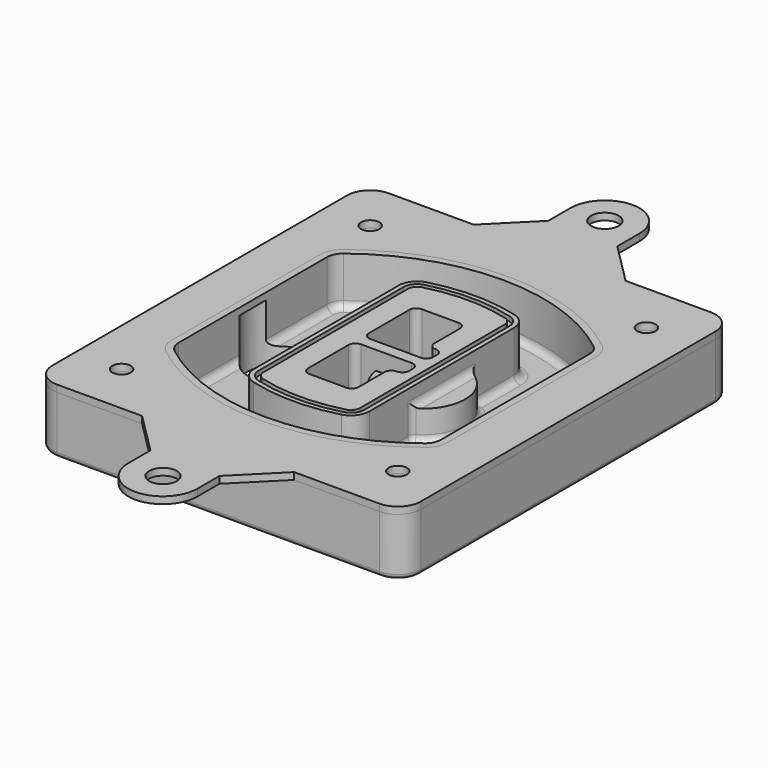
from build123d import *

# Parameters (mm, degrees)
F0_R      = 4
F1_DEPTH  = 25
F2_DEPTH  = 3
F3_DEPTH  = 18
F5_DEPTH  = 21
F6_DEPTH  = 2
F8_DEPTH  = 20
F9_DEPTH  = 16
F10_DEPTH = 25
F7_R      = 6
F7_R_2    = 4
F11_DEPTH = 6
F13_DEPTH = 9
F14_R     = 3
F15_R     = 2
F16_R     = 4
F16_R_2   = 6
F17_DEPTH = 3


with BuildPart() as f1:
    # F0 (on Top) → F1 (new body)
    with BuildSketch(Plane.XY):
        with BuildLine():
            ThreePointArc((-80, -80), (-77.0710678119, -87.0710678119), (-70, -90))
            Line((-70, -90), (70, -90))
            ThreePointArc((70, -90), (77.0710678119, -87.0710678119), (80, -80))
            Line((80, -80), (80, 80))
            ThreePointArc((80, 80), (77.0710678119, 87.0710678119), (70, 90))
            Line((70, 90), (-70, 90))
            ThreePointArc((-70, 90), (-77.0710678119, 87.0710678119), (-80, 80))
            Line((-80, 80), (-80, -80))
        make_face()
        with Locations((-60, -67.5)):
            Circle(F0_R, mode=Mode.SUBTRACT)
        with Locations((60, -67.5)):
            Circle(F0_R, mode=Mode.SUBTRACT)
        with Locations((-60, 67.5)):
            Circle(F0_R, mode=Mode.SUBTRACT)
        with BuildLine():
            ThreePointArc((-64, 40.2934422872), (-62.5820384798, 46.4328484224), (-58.6153846154, 51.3286200352))
            ThreePointArc((-58.6153846154, 51.3286200352), (0, 71.5), (58.6153846154, 51.3286200352))
            ThreePointArc((58.6153846154, 51.3286200352), (62.5820384798, 46.4328484224), (64, 40.2934422872))
            Line((64, 40.2934422872), (64, -40.2934422872))
            ThreePointArc((64, -40.2934422872), (62.5820384798, -46.4328484224), (58.6153846154, -51.3286200352))
            ThreePointArc((58.6153846154, -51.3286200352), (0, -71.5), (-58.6153846154, -51.3286200352))
            ThreePointArc((-58.6153846154, -51.3286200352), (-62.5820384798, -46.4328484224), (-64, -40.2934422872))
            Line((-64, -40.2934422872), (-64, 40.2934422872))
        make_face(mode=Mode.SUBTRACT)
        with Locations((60, 67.5)):
            Circle(F0_R, mode=Mode.SUBTRACT)
        with BuildLine():
            ThreePointArc((58.6153846154, 51.3286200352), (0, 71.5), (-58.6153846154, 51.3286200352))
            ThreePointArc((-58.6153846154, 51.3286200352), (-62.5820384798, 46.4328484224), (-64, 40.2934422872))
            Line((-64, 40.2934422872), (-64, -40.2934422872))
            ThreePointArc((-64, -40.2934422872), (-62.5820384798, -46.4328484224), (-58.6153846154, -51.3286200352))
            ThreePointArc((-58.6153846154, -51.3286200352), (0, -71.5), (58.6153846154, -51.3286200352))
            ThreePointArc((58.6153846154, -51.3286200352), (62.5820384798, -46.4328484224), (64, -40.2934422872))
            Line((64, -40.2934422872), (64, 40.2934422872))
            ThreePointArc((64, 40.2934422872), (62.5820384798, 46.4328484224), (58.6153846154, 51.3286200352))
        make_face()
        with BuildLine():
            Line((-60, -40.2934422872), (-60, 40.2934422872))
            ThreePointArc((-60, 40.2934422872), (-58.9871703427, 44.6787323838), (-56.1538461538, 48.1757121072))
            ThreePointArc((-56.1538461538, 48.1757121072), (0, 67.5), (56.1538461538, 48.1757121072))
            ThreePointArc((56.1538461538, 48.1757121072), (58.9871703427, 44.6787323838), (60, 40.2934422872))
            Line((60, 40.2934422872), (60, -40.2934422872))
            ThreePointArc((60, -40.2934422872), (58.9871703427, -44.6787323838), (56.1538461538, -48.1757121072))
            ThreePointArc((56.1538461538, -48.1757121072), (0, -67.5), (-56.1538461538, -48.1757121072))
            ThreePointArc((-56.1538461538, -48.1757121072), (-58.9871703427, -44.6787323838), (-60, -40.2934422872))
        make_face(mode=Mode.SUBTRACT)
        with BuildLine():
            ThreePointArc((-56.1538461538, 48.1757121072), (-58.9871703427, 44.6787323838), (-60, 40.2934422872))
            Line((-60, 40.2934422872), (-60, -40.2934422872))
            ThreePointArc((-60, -40.2934422872), (-58.9871703427, -44.6787323838), (-56.1538461538, -48.1757121072))
            ThreePointArc((-56.1538461538, -48.1757121072), (0, -67.5), (56.1538461538, -48.1757121072))
            ThreePointArc((56.1538461538, -48.1757121072), (58.9871703427, -44.6787323838), (60, -40.2934422872))
            Line((60, -40.2934422872), (60, 40.2934422872))
            ThreePointArc((60, 40.2934422872), (58.9871703427, 44.6787323838), (56.1538461538, 48.1757121072))
            ThreePointArc((56.1538461538, 48.1757121072), (0, 67.5), (-56.1538461538, 48.1757121072))
        make_face()
        with BuildLine():
            ThreePointArc((54.3076923077, 45.8110311612), (56.2910192399, 43.3631453548), (57, 40.2934422872))
            Line((57, 40.2934422872), (57, -40.2934422872))
            ThreePointArc((57, -40.2934422872), (56.2910192399, -43.3631453548), (54.3076923077, -45.8110311612))
            ThreePointArc((54.3076923077, -45.8110311612), (0, -64.5), (-54.3076923077, -45.8110311612))
            ThreePointArc((-54.3076923077, -45.8110311612), (-56.2910192399, -43.3631453548), (-57, -40.2934422872))
            Line((-57, -40.2934422872), (-57, 40.2934422872))
            ThreePointArc((-57, 40.2934422872), (-56.2910192399, 43.3631453548), (-54.3076923077, 45.8110311612))
            ThreePointArc((-54.3076923077, 45.8110311612), (0, 64.5), (54.3076923077, 45.8110311612))
        make_face(mode=Mode.SUBTRACT)
        with BuildLine():
            Line((57, -40.2934422872), (57, 40.2934422872))
            ThreePointArc((57, 40.2934422872), (56.2910192399, 43.3631453548), (54.3076923077, 45.8110311612))
            ThreePointArc((54.3076923077, 45.8110311612), (0, 64.5), (-54.3076923077, 45.8110311612))
            ThreePointArc((-54.3076923077, 45.8110311612), (-56.2910192399, 43.3631453548), (-57, 40.2934422872))
            Line((-57, 40.2934422872), (-57, -40.2934422872))
            ThreePointArc((-57, -40.2934422872), (-56.2910192399, -43.3631453548), (-54.3076923077, -45.8110311612))
            ThreePointArc((-54.3076923077, -45.8110311612), (0, -64.5), (54.3076923077, -45.8110311612))
            ThreePointArc((54.3076923077, -45.8110311612), (56.2910192399, -43.3631453548), (57, -40.2934422872))
        make_face()
    extrude(amount=-F1_DEPTH)

    # F0 (on Top) → F2 (join)
    with BuildSketch(Plane.XY):
        with BuildLine():
            ThreePointArc((-56.1538461538, 48.1757121072), (-58.9871703427, 44.6787323838), (-60, 40.2934422872))
            Line((-60, 40.2934422872), (-60, -40.2934422872))
            ThreePointArc((-60, -40.2934422872), (-58.9871703427, -44.6787323838), (-56.1538461538, -48.1757121072))
            ThreePointArc((-56.1538461538, -48.1757121072), (0, -67.5), (56.1538461538, -48.1757121072))
            ThreePointArc((56.1538461538, -48.1757121072), (58.9871703427, -44.6787323838), (60, -40.2934422872))
            Line((60, -40.2934422872), (60, 40.2934422872))
            ThreePointArc((60, 40.2934422872), (58.9871703427, 44.6787323838), (56.1538461538, 48.1757121072))
            ThreePointArc((56.1538461538, 48.1757121072), (0, 67.5), (-56.1538461538, 48.1757121072))
        make_face()
        with BuildLine():
            ThreePointArc((54.3076923077, 45.8110311612), (56.2910192399, 43.3631453548), (57, 40.2934422872))
            Line((57, 40.2934422872), (57, -40.2934422872))
            ThreePointArc((57, -40.2934422872), (56.2910192399, -43.3631453548), (54.3076923077, -45.8110311612))
            ThreePointArc((54.3076923077, -45.8110311612), (0, -64.5), (-54.3076923077, -45.8110311612))
            ThreePointArc((-54.3076923077, -45.8110311612), (-56.2910192399, -43.3631453548), (-57, -40.2934422872))
            Line((-57, -40.2934422872), (-57, 40.2934422872))
            ThreePointArc((-57, 40.2934422872), (-56.2910192399, 43.3631453548), (-54.3076923077, 45.8110311612))
            ThreePointArc((-54.3076923077, 45.8110311612), (0, 64.5), (54.3076923077, 45.8110311612))
        make_face(mode=Mode.SUBTRACT)
    extrude(amount=F2_DEPTH)

    # F0 (on Top) → F3 (cut)
    with BuildSketch(Plane.XY):
        with BuildLine():
            Line((57, -40.2934422872), (57, 40.2934422872))
            ThreePointArc((57, 40.2934422872), (56.2910192399, 43.3631453548), (54.3076923077, 45.8110311612))
            ThreePointArc((54.3076923077, 45.8110311612), (0, 64.5), (-54.3076923077, 45.8110311612))
            ThreePointArc((-54.3076923077, 45.8110311612), (-56.2910192399, 43.3631453548), (-57, 40.2934422872))
            Line((-57, 40.2934422872), (-57, -40.2934422872))
            ThreePointArc((-57, -40.2934422872), (-56.2910192399, -43.3631453548), (-54.3076923077, -45.8110311612))
            ThreePointArc((-54.3076923077, -45.8110311612), (0, -64.5), (54.3076923077, -45.8110311612))
            ThreePointArc((54.3076923077, -45.8110311612), (56.2910192399, -43.3631453548), (57, -40.2934422872))
        make_face()
    extrude(amount=-F3_DEPTH, mode=Mode.SUBTRACT)

    # F4 (on face) → F5 (join, through all)
    with BuildSketch(Plane.XY.offset(3)):
        with BuildLine():
            ThreePointArc((-25, -39.2465276821), (-23.3511545998, -44.1109737193), (-19.0842911877, -46.9702398883))
            ThreePointArc((-19.0842911877, -46.9702398883), (0, -49.5), (19.0842911877, -46.9702398883))
            ThreePointArc((19.0842911877, -46.9702398883), (23.3511545998, -44.1109737193), (25, -39.2465276821))
            Line((25, -39.2465276821), (25, 39.2465276821))
            ThreePointArc((25, 39.2465276821), (23.3511545998, 44.1109737193), (19.0842911877, 46.9702398883))
            ThreePointArc((19.0842911877, 46.9702398883), (0, 49.5), (-19.0842911877, 46.9702398883))
            ThreePointArc((-19.0842911877, 46.9702398883), (-23.3511545998, 44.1109737193), (-25, 39.2465276821))
            Line((-25, 39.2465276821), (-25, -39.2465276821))
        make_face()
        with BuildLine():
            ThreePointArc((18.5632183908, 45.0393118368), (21.7633659499, 42.89486221), (23, 39.2465276821))
            Line((23, 39.2465276821), (23, -39.2465276821))
            ThreePointArc((23, -39.2465276821), (21.7633659499, -42.89486221), (18.5632183908, -45.0393118368))
            ThreePointArc((18.5632183908, -45.0393118368), (0, -47.5), (-18.5632183908, -45.0393118368))
            ThreePointArc((-18.5632183908, -45.0393118368), (-21.7633659499, -42.89486221), (-23, -39.2465276821))
            Line((-23, -39.2465276821), (-23, 39.2465276821))
            ThreePointArc((-23, 39.2465276821), (-21.7633659499, 42.89486221), (-18.5632183908, 45.0393118368))
            ThreePointArc((-18.5632183908, 45.0393118368), (0, 47.5), (18.5632183908, 45.0393118368))
        make_face(mode=Mode.SUBTRACT)
        with BuildLine():
            Line((23, -39.2465276821), (23, 39.2465276821))
            ThreePointArc((23, 39.2465276821), (21.7633659499, 42.89486221), (18.5632183908, 45.0393118368))
            ThreePointArc((18.5632183908, 45.0393118368), (0, 47.5), (-18.5632183908, 45.0393118368))
            ThreePointArc((-18.5632183908, 45.0393118368), (-21.7633659499, 42.89486221), (-23, 39.2465276821))
            Line((-23, 39.2465276821), (-23, -39.2465276821))
            ThreePointArc((-23, -39.2465276821), (-21.7633659499, -42.89486221), (-18.5632183908, -45.0393118368))
            ThreePointArc((-18.5632183908, -45.0393118368), (0, -47.5), (18.5632183908, -45.0393118368))
            ThreePointArc((18.5632183908, -45.0393118368), (21.7633659499, -42.89486221), (23, -39.2465276821))
        make_face()
        with BuildLine():
            ThreePointArc((18.0421455939, 43.1083837852), (20.1755772999, 41.6787507007), (21, 39.2465276821))
            Line((21, 39.2465276821), (21, -39.2465276821))
            ThreePointArc((21, -39.2465276821), (20.1755772999, -41.6787507007), (18.0421455939, -43.1083837852))
            ThreePointArc((18.0421455939, -43.1083837852), (0, -45.5), (-18.0421455939, -43.1083837852))
            ThreePointArc((-18.0421455939, -43.1083837852), (-20.1755772999, -41.6787507007), (-21, -39.2465276821))
            Line((-21, -39.2465276821), (-21, 39.2465276821))
            ThreePointArc((-21, 39.2465276821), (-20.1755772999, 41.6787507007), (-18.0421455939, 43.1083837852))
            ThreePointArc((-18.0421455939, 43.1083837852), (0, 45.5), (18.0421455939, 43.1083837852))
        make_face(mode=Mode.SUBTRACT)
        with BuildLine():
            Line((21, -39.2465276821), (21, 39.2465276821))
            ThreePointArc((21, 39.2465276821), (20.1755772999, 41.6787507007), (18.0421455939, 43.1083837852))
            ThreePointArc((18.0421455939, 43.1083837852), (0, 45.5), (-18.0421455939, 43.1083837852))
            ThreePointArc((-18.0421455939, 43.1083837852), (-20.1755772999, 41.6787507007), (-21, 39.2465276821))
            Line((-21, 39.2465276821), (-21, -39.2465276821))
            ThreePointArc((-21, -39.2465276821), (-20.1755772999, -41.6787507007), (-18.0421455939, -43.1083837852))
            ThreePointArc((-18.0421455939, -43.1083837852), (0, -45.5), (18.0421455939, -43.1083837852))
            ThreePointArc((18.0421455939, -43.1083837852), (20.1755772999, -41.6787507007), (21, -39.2465276821))
        make_face()
        with BuildLine():
            Line((-8, -2.5), (14, -2.5))
            ThreePointArc((14, -2.5), (16.1213203436, -3.3786796564), (17, -5.5))
            Line((17, -5.5), (17, -7.5))
            ThreePointArc((17, -7.5), (16.1213203436, -9.6213203436), (14, -10.5))
            ThreePointArc((14, -10.5), (11.8786796564, -11.3786796564), (11, -13.5))
            Line((11, -13.5), (11, -27.5))
            ThreePointArc((11, -27.5), (10.1213203436, -29.6213203436), (8, -30.5))
            Line((8, -30.5), (-8, -30.5))
            ThreePointArc((-8, -30.5), (-10.1213203436, -29.6213203436), (-11, -27.5))
            Line((-11, -27.5), (-11, -5.5))
            ThreePointArc((-11, -5.5), (-10.1213203436, -3.3786796564), (-8, -2.5))
        make_face(mode=Mode.SUBTRACT)
        with BuildLine():
            ThreePointArc((-8, 2.5), (-10.1213203436, 3.3786796564), (-11, 5.5))
            Line((-11, 5.5), (-11, 27.5))
            ThreePointArc((-11, 27.5), (-10.1213203436, 29.6213203436), (-8, 30.5))
            Line((-8, 30.5), (8, 30.5))
            ThreePointArc((8, 30.5), (10.1213203436, 29.6213203436), (11, 27.5))
            Line((11, 27.5), (11, 13.5))
            ThreePointArc((11, 13.5), (11.8786796564, 11.3786796564), (14, 10.5))
            ThreePointArc((14, 10.5), (16.1213203436, 9.6213203436), (17, 7.5))
            Line((17, 7.5), (17, 5.5))
            ThreePointArc((17, 5.5), (16.1213203436, 3.3786796564), (14, 2.5))
            Line((14, 2.5), (-8, 2.5))
        make_face(mode=Mode.SUBTRACT)
    extrude(amount=-F5_DEPTH)

    # F4 (on face) → F6 (cut)
    with BuildSketch(Plane.XY.offset(3)):
        with BuildLine():
            Line((23, -39.2465276821), (23, 39.2465276821))
            ThreePointArc((23, 39.2465276821), (21.7633659499, 42.89486221), (18.5632183908, 45.0393118368))
            ThreePointArc((18.5632183908, 45.0393118368), (0, 47.5), (-18.5632183908, 45.0393118368))
            ThreePointArc((-18.5632183908, 45.0393118368), (-21.7633659499, 42.89486221), (-23, 39.2465276821))
            Line((-23, 39.2465276821), (-23, -39.2465276821))
            ThreePointArc((-23, -39.2465276821), (-21.7633659499, -42.89486221), (-18.5632183908, -45.0393118368))
            ThreePointArc((-18.5632183908, -45.0393118368), (0, -47.5), (18.5632183908, -45.0393118368))
            ThreePointArc((18.5632183908, -45.0393118368), (21.7633659499, -42.89486221), (23, -39.2465276821))
        make_face()
        with BuildLine():
            ThreePointArc((18.0421455939, 43.1083837852), (20.1755772999, 41.6787507007), (21, 39.2465276821))
            Line((21, 39.2465276821), (21, -39.2465276821))
            ThreePointArc((21, -39.2465276821), (20.1755772999, -41.6787507007), (18.0421455939, -43.1083837852))
            ThreePointArc((18.0421455939, -43.1083837852), (0, -45.5), (-18.0421455939, -43.1083837852))
            ThreePointArc((-18.0421455939, -43.1083837852), (-20.1755772999, -41.6787507007), (-21, -39.2465276821))
            Line((-21, -39.2465276821), (-21, 39.2465276821))
            ThreePointArc((-21, 39.2465276821), (-20.1755772999, 41.6787507007), (-18.0421455939, 43.1083837852))
            ThreePointArc((-18.0421455939, 43.1083837852), (0, 45.5), (18.0421455939, 43.1083837852))
        make_face(mode=Mode.SUBTRACT)
    extrude(amount=-F6_DEPTH, mode=Mode.SUBTRACT)

    # F7 (on face) → F8 (join)
    with BuildSketch(Plane(origin=(0, 0, -25), x_dir=(1, 0, 0), z_dir=(0, 0, -1))):
        with BuildLine():
            ThreePointArc((3.28842436, 0), (16.7567035675, 13.4682792075), (30.224982775, 0))
            Line((30.224982775, 0), (35.224982775, 0))
            ThreePointArc((35.224982775, 0), (16.7567035675, 18.4682792075), (-1.71157564, 0))
            Line((-1.71157564, 0), (3.28842436, 0))
        make_face()
        with BuildLine():
            Line((3.28842436, 0), (30.224982775, 0))
            ThreePointArc((30.224982775, 0), (16.7567035675, 13.4682792075), (3.28842436, 0))
        make_face()
        with BuildLine():
            ThreePointArc((3.28842436, 0), (16.7567035675, -13.4682792075), (30.224982775, 0))
            Line((30.224982775, 0), (3.28842436, 0))
        make_face()
        with BuildLine():
            Line((35.224982775, 0), (30.224982775, 0))
            ThreePointArc((30.224982775, 0), (16.7567035675, -13.4682792075), (3.28842436, 0))
            Line((3.28842436, 0), (-1.71157564, 0))
            ThreePointArc((-1.71157564, 0), (16.7567035675, -18.4682792075), (35.224982775, 0))
        make_face()
    extrude(amount=-F8_DEPTH)

    # F7 (on face) → F9 (cut)
    with BuildSketch(Plane(origin=(0, 0, -25), x_dir=(1, 0, 0), z_dir=(0, 0, -1))):
        with BuildLine():
            Line((3.28842436, 0), (30.224982775, 0))
            ThreePointArc((30.224982775, 0), (16.7567035675, 13.4682792075), (3.28842436, 0))
        make_face()
        with BuildLine():
            ThreePointArc((3.28842436, 0), (16.7567035675, -13.4682792075), (30.224982775, 0))
            Line((30.224982775, 0), (3.28842436, 0))
        make_face()
    extrude(amount=-F9_DEPTH, mode=Mode.SUBTRACT)

    # F7 (on face) → F10 (cut)
    with BuildSketch(Plane(origin=(0, 0, -25), x_dir=(1, 0, 0), z_dir=(0, 0, -1))):
        with BuildLine():
            Line((-59.0318229325, 0), (-32.0952645175, 0))
            ThreePointArc((-32.0952645175, 0), (-45.563543725, 13.4682792075), (-59.0318229325, 0))
        make_face()
        with BuildLine():
            ThreePointArc((-59.0318229325, 0), (-45.563543725, -13.4682792075), (-32.0952645175, 0))
            Line((-32.0952645175, 0), (-59.0318229325, 0))
        make_face()
    extrude(amount=-F10_DEPTH, mode=Mode.SUBTRACT)

    # F7 (on face) → F11 (cut)
    with BuildSketch(Plane(origin=(0, 0, -25), x_dir=(1, 0, 0), z_dir=(0, 0, -1))):
        with Locations((60, -67.5)):
            Circle(F7_R)
        with Locations((60, -67.5)):
            Circle(F7_R_2, mode=Mode.SUBTRACT)
        with Locations((60, -67.5)):
            Circle(F7_R)
        with Locations((60, -67.5)):
            Circle(F7_R_2, mode=Mode.SUBTRACT)
        with Locations((-60, -67.5)):
            Circle(F7_R)
        with Locations((-60, -67.5)):
            Circle(F7_R_2, mode=Mode.SUBTRACT)
        with Locations((-60, -67.5)):
            Circle(F7_R)
        with Locations((-60, -67.5)):
            Circle(F7_R_2, mode=Mode.SUBTRACT)
        with Locations((-60, 67.5)):
            Circle(F7_R)
        with Locations((-60, 67.5)):
            Circle(F7_R_2, mode=Mode.SUBTRACT)
        with Locations((-60, 67.5)):
            Circle(F7_R)
        with Locations((-60, 67.5)):
            Circle(F7_R_2, mode=Mode.SUBTRACT)
        with Locations((60, 67.5)):
            Circle(F7_R)
        with Locations((60, 67.5)):
            Circle(F7_R_2, mode=Mode.SUBTRACT)
        with Locations((60, 67.5)):
            Circle(F7_R)
        with Locations((60, 67.5)):
            Circle(F7_R_2, mode=Mode.SUBTRACT)
    extrude(amount=-F11_DEPTH, mode=Mode.SUBTRACT)

    # F12 (on face) → F13 (cut, through all)
    with BuildSketch(Plane(origin=(0, 0, -9), x_dir=(1, 0, 0), z_dir=(0, 0, -1))):
        with BuildLine():
            Line((11, 13.5), (11, 17.5481537753))
            ThreePointArc((11, 17.5481537753), (2.5696536419, 11.8239143813), (-1.5415842455, 2.5))
            Line((-1.5415842455, 2.5), (3.5224848595, 2.5))
            ThreePointArc((3.5224848595, 2.5), (6.1857188154, 8.3455872281), (11.2536447004, 12.2927168648))
            ThreePointArc((11.2536447004, 12.2927168648), (11.0640958889, 12.8831798879), (11, 13.5))
        make_face()
        with BuildLine():
            ThreePointArc((11.2536447004, -12.2927168648), (6.1857188154, -8.3455872281), (3.5224848595, -2.5))
            Line((3.5224848595, -2.5), (-1.5415842455, -2.5))
            ThreePointArc((-1.5415842455, -2.5), (2.5696536419, -11.8239143813), (11, -17.5481537753))
            Line((11, -17.5481537753), (11, -13.5))
            ThreePointArc((11, -13.5), (11.0640958889, -12.8831798879), (11.2536447004, -12.2927168648))
        make_face()
        with BuildLine():
            ThreePointArc((11.2536447004, 12.2927168648), (6.1857188154, 8.3455872281), (3.5224848595, 2.5))
            Line((3.5224848595, 2.5), (14, 2.5))
            ThreePointArc((14, 2.5), (16.1213203436, 3.3786796564), (17, 5.5))
            Line((17, 5.5), (17, 7.5))
            ThreePointArc((17, 7.5), (16.1213203436, 9.6213203436), (14, 10.5))
            ThreePointArc((14, 10.5), (12.3601599782, 10.9878446101), (11.2536447004, 12.2927168648))
        make_face()
        with BuildLine():
            Line((14, -2.5), (3.5224848595, -2.5))
            ThreePointArc((3.5224848595, -2.5), (6.1857188154, -8.3455872281), (11.2536447004, -12.2927168648))
            ThreePointArc((11.2536447004, -12.2927168648), (12.3601599782, -10.9878446101), (14, -10.5))
            ThreePointArc((14, -10.5), (16.1213203436, -9.6213203436), (17, -7.5))
            Line((17, -7.5), (17, -5.5))
            ThreePointArc((17, -5.5), (16.1213203436, -3.3786796564), (14, -2.5))
        make_face()
    extrude(amount=F13_DEPTH, mode=Mode.SUBTRACT)

    # F14
    f14_edges = [f1.edges().sort_by_distance(p)[0] for p in [
        (-57, -23.703476, -18),
        (-57, 23.703476, -18),
        (25, 0, -5),
        (25, 16.526506, -11.5),
        (25, -16.526506, -11.5),
        (25, -27.886517, -18),
        (35.224983, 0, -18),
    ]]
    fillet(f14_edges, radius=F14_R)

    # F15
    f15_edges = [f1.edges().sort_by_distance(p)[0] for p in [
        (0, -90, -25),
    ]]
    fillet(f15_edges, radius=F15_R)


with BuildPart() as f17:
    # F16 (on face) → F17 (new body, through all)
    with BuildSketch(Plane.XY):
        with BuildLine():
            Line((70, 90), (32.9426947955, 90))
            Line((32.9426947955, 90), (-33.0573052045, 90))
            Line((-33.0573052045, 90), (-70, 90))
            ThreePointArc((-70, 90), (-77.0710678119, 87.0710678119), (-80, 80))
            Line((-80, 80), (-80, -80))
            ThreePointArc((-80, -80), (-77.0710678119, -87.0710678119), (-70, -90))
            Line((-70, -90), (-33.0573052045, -90))
            Line((-33.0573052045, -90), (32.9426947955, -90))
            Line((32.9426947955, -90), (70, -90))
            ThreePointArc((70, -90), (77.0710678119, -87.0710678119), (80, -80))
            Line((80, -80), (80, 80))
            ThreePointArc((80, 80), (77.0710678119, 87.0710678119), (70, 90))
        make_face()
        with Locations((-60, -67.5)):
            Circle(F16_R, mode=Mode.SUBTRACT)
        with Locations((60, -67.5)):
            Circle(F16_R, mode=Mode.SUBTRACT)
        with Locations((-60, 67.5)):
            Circle(F16_R, mode=Mode.SUBTRACT)
        with BuildLine():
            ThreePointArc((-60, 40.2934422872), (-58.9871703427, 44.6787323838), (-56.1538461538, 48.1757121072))
            ThreePointArc((-56.1538461538, 48.1757121072), (0, 67.5), (56.1538461538, 48.1757121072))
            ThreePointArc((56.1538461538, 48.1757121072), (58.9871703427, 44.6787323838), (60, 40.2934422872))
            Line((60, 40.2934422872), (60, -40.2934422872))
            ThreePointArc((60, -40.2934422872), (58.9871703427, -44.6787323838), (56.1538461538, -48.1757121072))
            ThreePointArc((56.1538461538, -48.1757121072), (0, -67.5), (-56.1538461538, -48.1757121072))
            ThreePointArc((-56.1538461538, -48.1757121072), (-58.9871703427, -44.6787323838), (-60, -40.2934422872))
            Line((-60, -40.2934422872), (-60, 40.2934422872))
        make_face(mode=Mode.SUBTRACT)
        with Locations((60, 67.5)):
            Circle(F16_R, mode=Mode.SUBTRACT)
        with BuildLine():
            Line((14.9426947955, -108), (32.9426947955, -90))
            Line((32.9426947955, -90), (-33.0573052045, -90))
            Line((-33.0573052045, -90), (-15.0573052045, -108))
            Line((-15.0573052045, -108), (-15.0573052045, -120))
            ThreePointArc((-15.0573052045, -120), (-0.0573052045, -135), (14.9426947955, -120))
            Line((14.9426947955, -120), (14.9426947955, -108))
        make_face()
        with Locations((0, -120)):
            Circle(F16_R_2, mode=Mode.SUBTRACT)
        with BuildLine():
            Line((14.9426947955, 108), (14.9426947955, 120))
            ThreePointArc((14.9426947955, 120), (-0.0573052045, 135), (-15.0573052045, 120))
            Line((-15.0573052045, 120), (-15.0573052045, 108))
            Line((-15.0573052045, 108), (-33.0573052045, 90))
            Line((-33.0573052045, 90), (32.9426947955, 90))
            Line((32.9426947955, 90), (14.9426947955, 108))
        make_face()
        with Locations((-0.0573051, 119.9999452687)):
            Circle(F16_R_2, mode=Mode.SUBTRACT)
    extrude(amount=F17_DEPTH)


solid = Compound([f1.part, f17.part])
